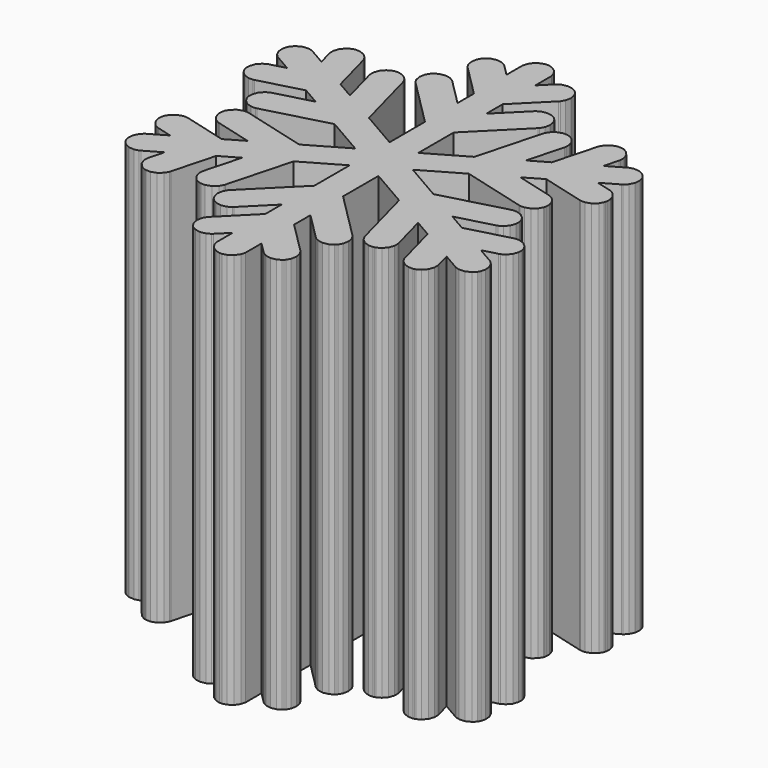
from build123d import *

# Parameters (mm, degrees)
F1_DEPTH = 2


with BuildPart() as f1:
    # F0 (on Top) → F1 (new body)
    with BuildSketch(Plane.XY):
        Polygon((-2.85693, 1.36166), (-2.78423, 1.28896), (-2.78423, 1.4946389483), (-2.80267, 1.51308), (-2.80641, 1.51683), (-2.82812, 1.52958), (-2.85205, 1.53445), (-2.85693, 1.53424), (-2.86181, 1.53445), (-2.88579, 1.52958), (-2.90749, 1.51683), (-2.91117, 1.51308), (-2.92963, 1.494615788), (-2.92963, 1.2889542634), align=None)
        Polygon((-2.98366, 1.23492), (-2.92963, 1.2889542634), (-2.92963, 1.494615788), (-3.08648, 1.33773), (-3.09152, 1.33274), (-3.10248, 1.3137), (-3.1078, 1.28635), (-3.10248, 1.25901), (-3.09152, 1.23996), (-3.08648, 1.23492), (-3.08148, 1.22994), (-3.06244, 1.21898), (-3.03509, 1.2136), (-3.00776, 1.21898), (-2.98866, 1.22994), align=None)
        Polygon((-2.78423, 1.18778), (-2.78423, 1.19483), (-2.78423, 1.28896), (-2.85693, 1.36166), (-2.92963, 1.2889542634), (-2.92963, 1.19483), (-2.92963, 1.18778), (-2.92392, 1.16651), (-2.90836, 1.14339), (-2.88524, 1.12783), (-2.86404, 1.12208), (-2.85693, 1.12208), (-2.84987, 1.12208), (-2.82866, 1.12783), (-2.80555, 1.14339), (-2.78998, 1.16651), align=None)
        Polygon((-2.78423, 1.4946389483), (-2.78423, 1.28896), (-2.73019, 1.23492), (-2.7252, 1.22994), (-2.70616, 1.21898), (-2.67876, 1.2136), (-2.65141, 1.21898), (-2.63237, 1.22994), (-2.62733, 1.23492), (-2.62234, 1.23996), (-2.61138, 1.25901), (-2.60606, 1.28635), (-2.61138, 1.3137), (-2.62234, 1.33274), (-2.62733, 1.33773), align=None)
        Polygon((-2.80267, 1.51308), (-2.78423, 1.4946389483), (-2.78423, 1.5980823407), (-2.85693, 1.6708), (-2.92963, 1.5980823407), (-2.92963, 1.494615788), (-2.91117, 1.51308), (-2.90749, 1.51683), (-2.88579, 1.52958), (-2.86181, 1.53445), (-2.85693, 1.53424), (-2.85205, 1.53445), (-2.82812, 1.52958), (-2.80641, 1.51683), align=None)
        Polygon((-2.85693, 1.6708), (-2.78423, 1.5980823407), (-2.78423, 1.80377), (-2.80267, 1.82221), (-2.80641, 1.82596), (-2.82812, 1.83871), (-2.85205, 1.84359), (-2.85693, 1.84338), (-2.86181, 1.84359), (-2.88579, 1.83871), (-2.90749, 1.82596), (-2.91117, 1.82221), (-2.92963, 1.8037478232), (-2.92963, 1.5980823407), align=None)
        Polygon((-3.06277, 1.46491), (-2.92963, 1.5980823407), (-2.92963, 1.8037478232), (-3.16558, 1.56777), (-3.17062, 1.56278), (-3.18158, 1.54373), (-3.1869, 1.51639), (-3.18158, 1.48899), (-3.17062, 1.46995), (-3.16558, 1.46491), (-3.16058, 1.45991), (-3.14154, 1.44895), (-3.1142, 1.44363), (-3.08686, 1.44895), (-3.06781, 1.45991), align=None)
        Polygon((-2.78423, 1.80377), (-2.78423, 1.5980823407), (-2.65109, 1.46491), (-2.64611, 1.45991), (-2.62705, 1.44895), (-2.59966, 1.44363), (-2.57231, 1.44895), (-2.55327, 1.45991), (-2.54823, 1.46491), (-2.54323, 1.46995), (-2.53227, 1.48899), (-2.52695, 1.51639), (-2.53227, 1.54373), (-2.54323, 1.56278), (-2.54823, 1.56777), align=None)
        Polygon((-2.4125528539, 1.8126095831), (-2.5906750329, 1.9154448979), (-2.50433, 1.5931), (-2.50255, 1.58633), (-2.49148, 1.56728), (-2.47048, 1.54899), (-2.44412, 1.53994), (-2.42209, 1.53994), (-2.41524, 1.54173), (-2.40847, 1.54357), (-2.38942, 1.55459), (-2.37115, 1.57557), (-2.36202, 1.60195), (-2.36202, 1.62398), (-2.36381, 1.63076), align=None)
        Polygon((-2.59744, 1.9407), (-2.5906750329, 1.9154448979), (-2.4125528539, 1.8126095831), (-2.43918, 1.91195), (-2.339845886, 1.9385709773), (-2.5179268508, 2.041385838), (-2.54317, 2.03462), (-2.54829, 2.03327), (-2.57015, 2.02089), (-2.58637, 2.00256), (-2.58865, 1.99821), (-2.59124, 1.99409), (-2.59901, 1.97092), (-2.59884, 1.94581), align=None)
        Polygon((-2.19563, 2.12777), (-2.5179268508, 2.041385838), (-2.339845886, 1.9385709773), (-2.15798, 1.98731), (-2.1512, 1.98916), (-2.13216, 2.00017), (-2.11387, 2.02116), (-2.10481, 2.04753), (-2.10481, 2.06956), (-2.10661, 2.07634), (-2.10845, 2.08317), (-2.11947, 2.10221), (-2.14045, 2.12051), (-2.16683, 2.12956), (-2.18886, 2.12962), align=None)
        Polygon((-2.43918, 1.91195), (-2.4125528539, 1.8126095831), (-2.3229758544, 1.7608940753), (-2.32974, 1.78614), (-2.33116, 1.79124), (-2.33131, 1.81641), (-2.32356, 1.83957), (-2.32095, 1.8437), (-2.31868, 1.84805), (-2.30245, 1.86638), (-2.28059, 1.8787), (-2.27549, 1.88005), (-2.2502164636, 1.8868235231), (-2.339845886, 1.9385709773), align=None)
        Polygon((-2.32974, 1.78614), (-2.3229758544, 1.7608940753), (-2.1448862114, 1.6580775446), (-2.17149, 1.75738), (-2.0721293575, 1.7840051167), (-2.2502164636, 1.8868235231), (-2.27549, 1.88005), (-2.28059, 1.8787), (-2.30245, 1.86638), (-2.31868, 1.84805), (-2.32095, 1.8437), (-2.32356, 1.83957), (-2.33131, 1.81641), (-2.33116, 1.79124), align=None)
        Polygon((-2.03602, 1.94423), (-2.2502164636, 1.8868235231), (-2.0721293575, 1.7840051167), (-1.99837, 1.80377), (-1.99159, 1.80562), (-1.97254, 1.81669), (-1.95426, 1.83769), (-1.94515, 1.86405), (-1.94515, 1.88608), (-1.94694, 1.89285), (-1.94877, 1.89969), (-1.95984, 1.91873), (-1.98084, 1.93702), (-2.00722, 1.94608), (-2.02923, 1.94608), align=None)
        Polygon((-2.1448862114, 1.6580775446), (-2.3229758544, 1.7608940753), (-2.26556, 1.5466), (-2.26377, 1.53983), (-2.25276, 1.52078), (-2.23172, 1.50251), (-2.2054, 1.49338), (-2.18337, 1.49338), (-2.17654, 1.49517), (-2.16976, 1.49702), (-2.15072, 1.50809), (-2.13243, 1.52909), (-2.12331, 1.55545), (-2.12331, 1.57748), (-2.12511, 1.58426), align=None)
        Polygon((-2.17149, 1.75738), (-2.1448862114, 1.6580775446), (-2.06336, 1.61101), (-2.05729, 1.60748), (-2.03602, 1.60184), (-2.00819, 1.60374), (-1.98317, 1.61595), (-1.96755, 1.63146), (-1.96402, 1.63759), (-1.96049, 1.64373), (-1.95486, 1.66499), (-1.95676, 1.69282), (-1.96897, 1.71784), (-1.98454, 1.73341), (-1.99061, 1.73694), (-2.0721293575, 1.7840051167), align=None)
        Polygon((-2.78423, 2.1111130015), (-2.78423, 2.0271900274), (-2.5906750329, 1.9154448979), (-2.59744, 1.9407), (-2.59884, 1.94581), (-2.59901, 1.97092), (-2.59124, 1.99409), (-2.58865, 1.99821), (-2.58637, 2.00256), (-2.57015, 2.02089), (-2.54829, 2.03327), (-2.54317, 2.03462), (-2.5179268508, 2.041385838), (-2.7114617788, 2.1531230284), align=None)
        Polygon((-3.20952, 1.5931), (-3.1231339915, 1.9154593832), (-3.3012357399, 1.812638961), (-3.34998, 1.63076), (-3.35183, 1.62398), (-3.35183, 1.60195), (-3.34277, 1.57557), (-3.32442, 1.55459), (-3.30538, 1.54357), (-3.29855, 1.54173), (-3.29177, 1.53994), (-3.26974, 1.53994), (-3.24342, 1.54899), (-3.22238, 1.56728), (-3.21137, 1.58633), align=None)
        Polygon((-3.44823, 1.5466), (-3.3908045977, 1.7609297114), (-3.568982854, 1.6580651202), (-3.58876, 1.58426), (-3.59059, 1.57748), (-3.59055, 1.55545), (-3.58148, 1.52909), (-3.5632, 1.50809), (-3.54416, 1.49702), (-3.53731, 1.49517), (-3.53054, 1.49338), (-3.50851, 1.49338), (-3.48215, 1.50251), (-3.46115, 1.52078), (-3.45008, 1.53983), align=None)
        Polygon((-3.65049, 1.61101), (-3.568982854, 1.6580651202), (-3.54237, 1.75738), (-3.6416913392, 1.7839945848), (-3.72319, 1.73694), (-3.72933, 1.73341), (-3.7449, 1.71784), (-3.75711, 1.69282), (-3.75905, 1.66499), (-3.75341, 1.64373), (-3.74983, 1.63759), (-3.7463, 1.63152), (-3.73073, 1.61595), (-3.70568, 1.60374), (-3.6779, 1.60184), (-3.65662, 1.60748), align=None)
        Polygon((-3.568982854, 1.6580651202), (-3.3908045977, 1.7609297114), (-3.38405, 1.78614), (-3.3827, 1.79124), (-3.38254, 1.81641), (-3.39024, 1.83957), (-3.39284, 1.8437), (-3.39518, 1.84805), (-3.4114, 1.86638), (-3.43326, 1.8787), (-3.43831, 1.88005), (-3.4635908849, 1.8868237953), (-3.6416913392, 1.7839945848), (-3.54237, 1.75738), align=None)
        Polygon((-3.6416913392, 1.7839945848), (-3.4635908849, 1.8868237953), (-3.67784, 1.94423), (-3.68467, 1.94608), (-3.7067, 1.94608), (-3.73306, 1.93702), (-3.75406, 1.91873), (-3.76513, 1.89969), (-3.76692, 1.89285), (-3.76877, 1.88608), (-3.76872, 1.86405), (-3.75965, 1.83769), (-3.74137, 1.81669), (-3.72233, 1.80562), (-3.71549, 1.80377), align=None)
        Polygon((-3.3908045977, 1.7609297114), (-3.3012357399, 1.812638961), (-3.27462, 1.91195), (-3.3739624188, 1.9385722563), (-3.4635908849, 1.8868237953), (-3.43831, 1.88005), (-3.43326, 1.8787), (-3.4114, 1.86638), (-3.39518, 1.84805), (-3.39284, 1.8437), (-3.39024, 1.83957), (-3.38254, 1.81641), (-3.3827, 1.79124), (-3.38405, 1.78614), align=None)
        Polygon((-3.3739624188, 1.9385722563), (-3.1958822095, 2.0413897779), (-3.51822, 2.12777), (-3.52506, 2.12962), (-3.54709, 2.12956), (-3.5734, 2.12051), (-3.59445, 2.10221), (-3.60547, 2.08317), (-3.60726, 2.07634), (-3.60909, 2.06956), (-3.60909, 2.04753), (-3.60004, 2.02116), (-3.5817, 2.00017), (-3.56266, 1.98916), (-3.55583, 1.98731), align=None)
        Polygon((-3.3012357399, 1.812638961), (-3.1231339915, 1.9154593832), (-3.11637, 1.9407), (-3.11501, 1.94581), (-3.11486, 1.97092), (-3.12255, 1.99409), (-3.12516, 1.99821), (-3.12749, 2.00256), (-3.14372, 2.02089), (-3.16552, 2.03327), (-3.17062, 2.03462), (-3.1958822095, 2.0413897779), (-3.3739624188, 1.9385722563), (-3.27462, 1.91195), align=None)
        Polygon((-2.92963, 2.0271717178), (-2.92963, 2.1111338397), (-3.0023599352, 2.1531230284), (-3.1958822095, 2.0413897779), (-3.17062, 2.03462), (-3.16552, 2.03327), (-3.14372, 2.02089), (-3.12749, 2.00256), (-3.12516, 1.99821), (-3.12255, 1.99409), (-3.11486, 1.97092), (-3.11501, 1.94581), (-3.11637, 1.9407), (-3.1231339915, 1.9154593832), align=None)
        Polygon((-2.80267, 1.82221), (-2.78423, 1.80377), (-2.78423, 2.0271900274), (-2.8569130477, 2.0691521465), (-2.92963, 2.0271717178), (-2.92963, 1.8037478232), (-2.91117, 1.82221), (-2.90749, 1.82596), (-2.88579, 1.83871), (-2.86181, 1.84359), (-2.85693, 1.84338), (-2.85205, 1.84359), (-2.82812, 1.83871), (-2.80641, 1.82596), align=None)
        Polygon((-2.92963, 2.0271717178), (-2.8569130477, 2.0691521465), (-2.92963, 2.1111338397), align=None)
        Polygon((-3.0023599352, 2.1531230284), (-2.92963, 2.1111338397), (-2.92963, 2.1951148461), align=None)
        Polygon((-2.78423, 2.1951356856), (-2.78423, 2.1111130015), (-2.7114617788, 2.1531230284), align=None)
        Polygon((-2.8569130477, 2.0691521465), (-2.78423, 2.0271900274), (-2.78423, 2.1111130015), align=None)
        Polygon((-2.8569130477, 2.2370991679), (-2.78423, 2.1951356856), (-2.78423, 2.2790639144), align=None)
        Polygon((-2.92963, 2.1951148461), (-2.8569130477, 2.2370991679), (-2.92963, 2.2790822251), align=None)
        Polygon((-2.8569130477, 2.0691521465), (-2.78423, 2.1111130015), (-2.78423, 2.1951356856), (-2.8569130477, 2.2370991679), (-2.92963, 2.1951148461), (-2.92963, 2.1111338397), align=None)
        Polygon((-3.0023599352, 2.1531230284), (-2.92963, 2.1951148461), (-2.92963, 2.2790822251), (-3.1231352098, 2.3908022577), (-3.11637, 2.36556), (-3.11501, 2.36046), (-3.11486, 2.33535), (-3.12255, 2.31219), (-3.12516, 2.30801), (-3.12749, 2.30371), (-3.14372, 2.28538), (-3.16552, 2.27301), (-3.17062, 2.2716), (-3.195864815, 2.264839241), align=None)
        Polygon((-3.3740066343, 2.3676858947), (-3.195864815, 2.264839241), (-3.17062, 2.2716), (-3.16552, 2.27301), (-3.14372, 2.28538), (-3.12749, 2.30371), (-3.12516, 2.30801), (-3.12255, 2.31219), (-3.11486, 2.33535), (-3.11501, 2.36046), (-3.11637, 2.36556), (-3.1231352098, 2.3908022577), (-3.301233788, 2.4936272875), (-3.27462, 2.39432), align=None)
        Polygon((-3.51822, 2.17851), (-3.195864815, 2.264839241), (-3.3740066343, 2.3676858947), (-3.55583, 2.31896), (-3.56266, 2.31717), (-3.5817, 2.3061), (-3.60004, 2.2851), (-3.60909, 2.25874), (-3.60909, 2.23671), (-3.60726, 2.22988), (-3.60547, 2.2231), (-3.59445, 2.20405), (-3.5734, 2.18577), (-3.54709, 2.17671), (-3.52506, 2.17671), align=None)
        Polygon((-3.4635797831, 2.4193991793), (-3.3740066343, 2.3676858947), (-3.27462, 2.39432), (-3.301233788, 2.4936272875), (-3.390807128, 2.5453423626), (-3.38405, 2.52013), (-3.3827, 2.51503), (-3.38254, 2.48991), (-3.39024, 2.46674), (-3.39284, 2.46257), (-3.39518, 2.45828), (-3.4114, 2.43995), (-3.43326, 2.42757), (-3.43831, 2.42617), align=None)
        Polygon((-3.641687854, 2.5222263491), (-3.4635797831, 2.4193991793), (-3.43831, 2.42617), (-3.43326, 2.42757), (-3.4114, 2.43995), (-3.39518, 2.45828), (-3.39284, 2.46257), (-3.39024, 2.46674), (-3.38254, 2.48991), (-3.3827, 2.51503), (-3.38405, 2.52013), (-3.390807128, 2.5453423626), (-3.5689918444, 2.6482171242), (-3.54237, 2.54884), align=None)
        Polygon((-3.301233788, 2.4936272875), (-3.1231352098, 2.3908022577), (-3.20952, 2.71312), (-3.21137, 2.71995), (-3.22238, 2.73899), (-3.24342, 2.75732), (-3.26974, 2.76639), (-3.29177, 2.76639), (-3.29855, 2.76455), (-3.30538, 2.76276), (-3.32442, 2.75174), (-3.34277, 2.73069), (-3.35183, 2.70438), (-3.35183, 2.68235), (-3.34998, 2.67552), align=None)
        Polygon((-3.5689918444, 2.6482171242), (-3.390807128, 2.5453423626), (-3.44823, 2.7596), (-3.45008, 2.76645), (-3.46115, 2.78549), (-3.48215, 2.80383), (-3.50851, 2.81288), (-3.53054, 2.81288), (-3.53731, 2.81105), (-3.54416, 2.80926), (-3.5632, 2.79824), (-3.58148, 2.77719), (-3.59055, 2.75088), (-3.59059, 2.72885), (-3.58876, 2.72201), align=None)
        Polygon((-3.67784, 2.36199), (-3.4635797831, 2.4193991793), (-3.641687854, 2.5222263491), (-3.71549, 2.50245), (-3.72233, 2.50066), (-3.74137, 2.48964), (-3.75965, 2.46859), (-3.76872, 2.44228), (-3.76877, 2.42026), (-3.76692, 2.41342), (-3.76513, 2.40663), (-3.75406, 2.38759), (-3.73306, 2.36926), (-3.7067, 2.3602), (-3.68467, 2.3602), align=None)
        Polygon((-3.72319, 2.56928), (-3.641687854, 2.5222263491), (-3.54237, 2.54884), (-3.5689918444, 2.6482171242), (-3.65049, 2.69527), (-3.65662, 2.69884), (-3.6779, 2.70449), (-3.70568, 2.70253), (-3.73073, 2.69033), (-3.7463, 2.67476), (-3.74983, 2.66863), (-3.75336, 2.66255), (-3.75905, 2.64128), (-3.75711, 2.61351), (-3.7449, 2.58844), (-3.72933, 2.57287), align=None)
        Polygon((-2.8569130477, 2.2370991679), (-2.78423, 2.2790639144), (-2.78423, 2.5025007247), (-2.80267, 2.48406), (-2.80641, 2.48037), (-2.82812, 2.46762), (-2.85205, 2.46273), (-2.85693, 2.46289), (-2.86181, 2.46273), (-2.88579, 2.46762), (-2.90749, 2.48037), (-2.91117, 2.48406), (-2.92963, 2.5025229024), (-2.92963, 2.2790822251), align=None)
        Polygon((-2.78423, 2.2790639144), (-2.78423, 2.1951356856), (-2.7114617788, 2.1531230284), (-2.5179442474, 2.2648431797), (-2.54317, 2.2716), (-2.54829, 2.27301), (-2.57015, 2.28538), (-2.58637, 2.30371), (-2.58865, 2.30801), (-2.59124, 2.31219), (-2.59901, 2.33535), (-2.59884, 2.36046), (-2.59744, 2.36556), (-2.5906738145, 2.390816744), align=None)
        Polygon((-2.54317, 2.2716), (-2.5179442474, 2.2648431797), (-2.33980167, 2.367687173), (-2.43918, 2.39432), (-2.4125548058, 2.4936566672), (-2.5906738145, 2.390816744), (-2.59744, 2.36556), (-2.59884, 2.36046), (-2.59901, 2.33535), (-2.59124, 2.31219), (-2.58865, 2.30801), (-2.58637, 2.30371), (-2.57015, 2.28538), (-2.54829, 2.27301), align=None)
        Polygon((-2.50433, 2.71312), (-2.5906738145, 2.390816744), (-2.4125548058, 2.4936566672), (-2.36381, 2.67552), (-2.36202, 2.68235), (-2.36202, 2.70438), (-2.37115, 2.73069), (-2.38942, 2.75174), (-2.40847, 2.76276), (-2.41524, 2.76455), (-2.42209, 2.76639), (-2.44412, 2.76639), (-2.47048, 2.75732), (-2.49148, 2.73899), (-2.50255, 2.71995), align=None)
        Polygon((-2.33980167, 2.367687173), (-2.5179442474, 2.2648431797), (-2.19563, 2.17851), (-2.18886, 2.17671), (-2.16683, 2.17671), (-2.14045, 2.18577), (-2.11947, 2.20405), (-2.10845, 2.2231), (-2.10661, 2.22988), (-2.10481, 2.23671), (-2.10481, 2.25874), (-2.11387, 2.2851), (-2.13216, 2.3061), (-2.1512, 2.31717), (-2.15798, 2.31896), align=None)
        Polygon((-2.43918, 2.39432), (-2.33980167, 2.367687173), (-2.2502275647, 2.4193994521), (-2.27549, 2.42617), (-2.28059, 2.42757), (-2.30245, 2.43995), (-2.31868, 2.45828), (-2.32095, 2.46257), (-2.32356, 2.46674), (-2.33131, 2.48991), (-2.33116, 2.51503), (-2.32974, 2.52013), (-2.3229733201, 2.5453780032), (-2.4125548058, 2.4936566672), align=None)
        Polygon((-2.27549, 2.42617), (-2.2502275647, 2.4193994521), (-2.0721328436, 2.5222158174), (-2.17149, 2.54884), (-2.1448772223, 2.6482046983), (-2.3229733201, 2.5453780032), (-2.32974, 2.52013), (-2.33116, 2.51503), (-2.33131, 2.48991), (-2.32356, 2.46674), (-2.32095, 2.46257), (-2.31868, 2.45828), (-2.30245, 2.43995), (-2.28059, 2.42757), align=None)
        Polygon((-2.26556, 2.7596), (-2.3229733201, 2.5453780032), (-2.1448772223, 2.6482046983), (-2.12511, 2.72201), (-2.12331, 2.72885), (-2.12331, 2.75088), (-2.13243, 2.77719), (-2.15072, 2.79824), (-2.16976, 2.80926), (-2.17654, 2.81105), (-2.18337, 2.81288), (-2.2054, 2.81288), (-2.23172, 2.80383), (-2.25276, 2.78549), (-2.26377, 2.76645), align=None)
        Polygon((-2.0721328436, 2.5222158174), (-2.2502275647, 2.4193994521), (-2.03602, 2.36199), (-2.02923, 2.3602), (-2.00722, 2.3602), (-1.98084, 2.36926), (-1.95984, 2.38759), (-1.94877, 2.40663), (-1.94694, 2.41342), (-1.94515, 2.42026), (-1.94515, 2.44228), (-1.95426, 2.46859), (-1.97254, 2.48964), (-1.99159, 2.50066), (-1.99837, 2.50245), align=None)
        Polygon((-2.17149, 2.54884), (-2.0721328436, 2.5222158174), (-1.99061, 2.56928), (-1.98454, 2.57287), (-1.96897, 2.58844), (-1.95676, 2.61351), (-1.95486, 2.64128), (-1.96049, 2.66255), (-1.96402, 2.66863), (-1.96761, 2.67476), (-1.98317, 2.69033), (-2.00819, 2.70253), (-2.03602, 2.70449), (-2.05729, 2.6988), (-2.06336, 2.69527), (-2.1448772223, 2.6482046983), align=None)
        Polygon((-2.78423, 2.7081764681), (-2.78423, 2.5025007247), (-2.54823, 2.73851), (-2.54323, 2.74355), (-2.53227, 2.76259), (-2.52695, 2.78994), (-2.53227, 2.81728), (-2.54323, 2.83633), (-2.54823, 2.84131), (-2.55327, 2.84637), (-2.57231, 2.85732), (-2.59966, 2.86263), (-2.62705, 2.85732), (-2.64611, 2.84631), (-2.65109, 2.84131), align=None)
        Polygon((-2.80267, 2.48406), (-2.78423, 2.5025007247), (-2.78423, 2.7081764681), (-2.85693, 2.63548), (-2.92963, 2.7081764681), (-2.92963, 2.5025229024), (-2.91117, 2.48406), (-2.90749, 2.48037), (-2.88579, 2.46762), (-2.86181, 2.46273), (-2.85693, 2.46289), (-2.85205, 2.46273), (-2.82812, 2.46762), (-2.80641, 2.48037), align=None)
        Polygon((-3.16558, 2.73851), (-2.92963, 2.5025229024), (-2.92963, 2.7081764681), (-3.06277, 2.84131), (-3.06781, 2.84637), (-3.08686, 2.85732), (-3.1142, 2.86263), (-3.14154, 2.85732), (-3.16058, 2.84637), (-3.16558, 2.84131), (-3.17062, 2.83633), (-3.18158, 2.81728), (-3.1869, 2.78994), (-3.18158, 2.76259), (-3.17062, 2.74355), align=None)
        Polygon((-2.85693, 2.63548), (-2.78423, 2.7081764681), (-2.78423, 2.8115710517), (-2.80267, 2.79313), (-2.80641, 2.78945), (-2.82812, 2.7767), (-2.85205, 2.77181), (-2.85693, 2.77198), (-2.86181, 2.77181), (-2.88579, 2.7767), (-2.90749, 2.78945), (-2.91117, 2.79313), (-2.92963, 2.811594212), (-2.92963, 2.7081764681), align=None)
        Polygon((-2.80267, 2.79313), (-2.78423, 2.8115710517), (-2.78423, 3.0172886808), (-2.85693, 2.94456), (-2.92963, 3.0172944196), (-2.92963, 2.811594212), (-2.91117, 2.79313), (-2.90749, 2.78945), (-2.88579, 2.7767), (-2.86181, 2.77181), (-2.85693, 2.77198), (-2.85205, 2.77181), (-2.82812, 2.7767), (-2.80641, 2.78945), align=None)
        Polygon((-3.08648, 2.96848), (-2.92963, 2.811594212), (-2.92963, 3.0172944196), (-2.98366, 3.07135), (-2.9887, 3.07639), (-3.00776, 3.08735), (-3.03509, 3.09267), (-3.06244, 3.08735), (-3.08148, 3.07639), (-3.08648, 3.07135), (-3.09152, 3.06635), (-3.10248, 3.04731), (-3.1078, 3.01992), (-3.10248, 2.99258), (-3.09152, 2.97353), align=None)
        Polygon((-2.85693, 2.94456), (-2.78423, 3.0172886808), (-2.78423, 3.11144), (-2.78423, 3.11855), (-2.78998, 3.13977), (-2.80555, 3.16288), (-2.82866, 3.17845), (-2.84987, 3.18414), (-2.85693, 3.18414), (-2.86404, 3.18414), (-2.88524, 3.17845), (-2.90836, 3.16288), (-2.92392, 3.13977), (-2.92963, 3.11855), (-2.92963, 3.11144), (-2.92963, 3.0172944196), align=None)
        Polygon((-2.78423, 3.0172886808), (-2.78423, 2.8115710517), (-2.62733, 2.96848), (-2.62234, 2.97353), (-2.61138, 2.99258), (-2.60606, 3.01992), (-2.61138, 3.04731), (-2.62234, 3.06635), (-2.62733, 3.07135), (-2.63237, 3.07639), (-2.65141, 3.08735), (-2.67876, 3.09267), (-2.70616, 3.08735), (-2.7252, 3.07634), (-2.73019, 3.07135), align=None)
    extrude(amount=F1_DEPTH)


solid = f1.part
